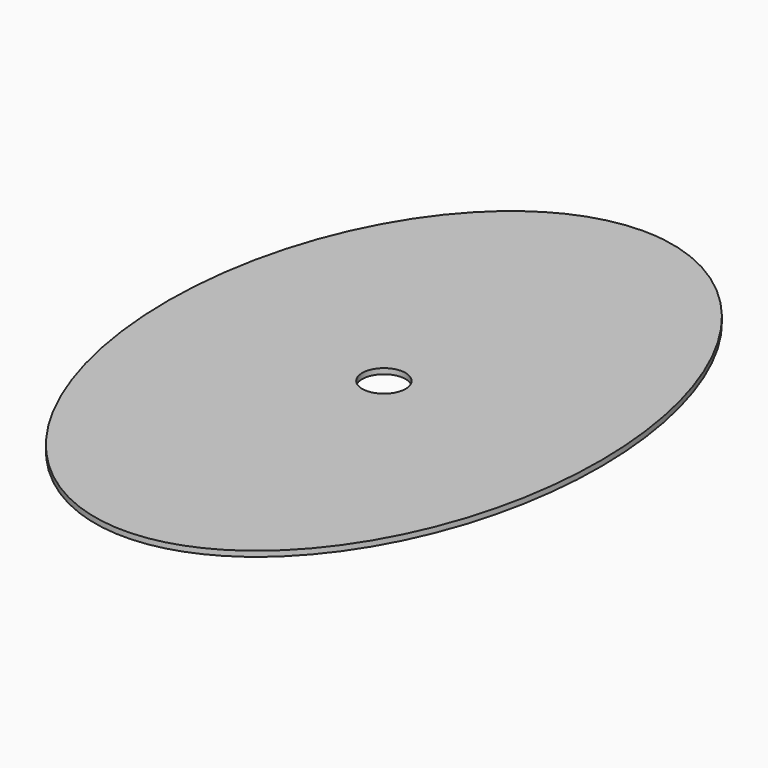
from build123d import *

# Parameters (mm, degrees)
F0_R     = 25.4
F1_DEPTH = 6.35
F2_W     = 79.375
F2_H     = 104.775
F3_DEPTH = 3.175


with BuildPart() as f1:
    # F0 (on Top) → F1 (new body)
    with BuildSketch(Plane.XY):
        with BuildLine():
            add(Edge.make_bspline(
                [(0, 381), (-439.940905, 381), (-219.970453, -190.5), (0, -762), (219.970453, -190.5), (439.940905, 381), (0, 381)],
                knots=[0, 0, 0, 2.094395, 2.094395, 4.18879, 4.18879, 6.283185, 6.283185, 6.283185], degree=2, weights=[1, 0.5, 1, 0.5, 1, 0.5, 1]))
        make_face()
        Circle(F0_R, mode=Mode.SUBTRACT)
    extrude(amount=F1_DEPTH)

    # F2 (on face) → F3 (join)
    with BuildSketch(Plane(origin=(0, 0, 0), x_dir=(1, 0, 0), z_dir=(0, 0, -1))):
        with Locations((-127, 190.5)):
            Rectangle(F2_W, F2_H)
        with Locations((127, 190.5)):
            Rectangle(F2_W, F2_H)
        with Locations((127, -190.5)):
            Rectangle(F2_W, F2_H)
        with Locations((-127, -190.5)):
            Rectangle(F2_W, F2_H)
    extrude(amount=F3_DEPTH)


solid = f1.part
